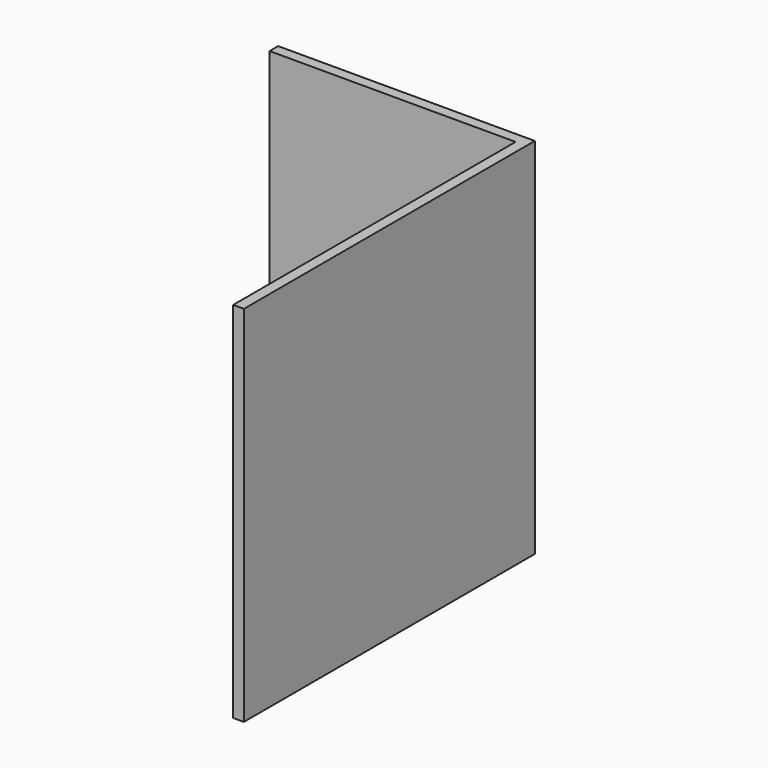
from build123d import *

# Parameters (mm, degrees)
F0_W     = 3.175
F0_H     = 104.775
F1_DEPTH = 107.95
F2_R     = 2.54
F3_DEPTH = 25.4


with BuildPart() as f1:
    # F0 (on Top) → F1 (new body)
    with BuildSketch(Plane.XY):
        Polygon((0, 3.175), (0, 0), (73.025, 0), (76.2, 0), (76.2, 3.175), align=None)
        with Locations((74.6125, -52.3875)):
            Rectangle(F0_W, F0_H)
    extrude(amount=F1_DEPTH)

    # F2 (on face) → F3 (cut)
    with BuildSketch(Plane(origin=(0, 3.175, 0), x_dir=(-1, 0, 0), z_dir=(0, 1, 0))):
        with Locations((-38.1, 53.975)):
            Circle(F2_R)
    extrude(amount=-F3_DEPTH, mode=Mode.SUBTRACT)


solid = f1.part
